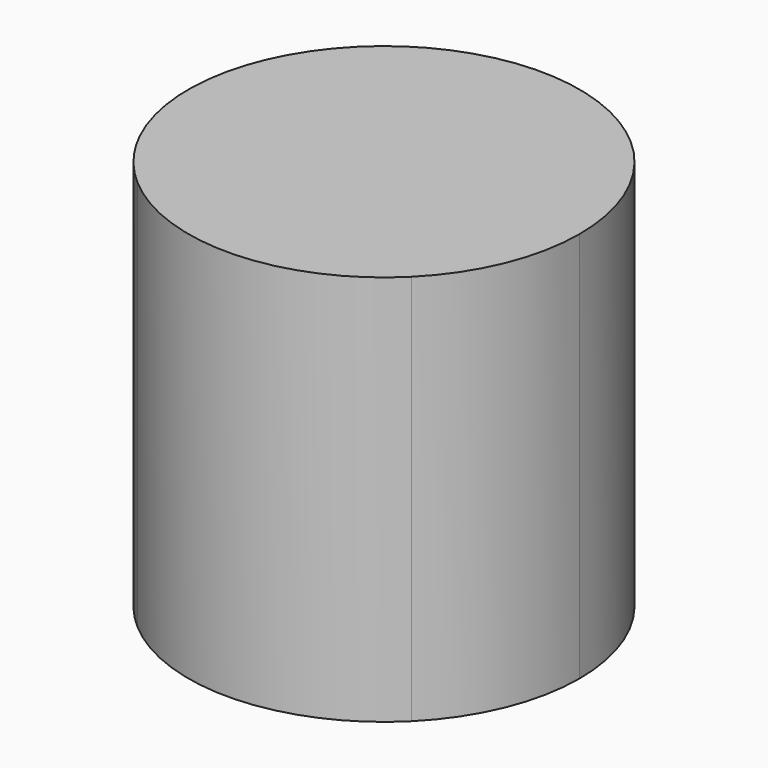
from build123d import *

# Parameters (mm, degrees)
F1_DEPTH = 3


with BuildPart() as f1:
    # F0 (on Top) → F1 (new body)
    with BuildSketch(Plane.XY):
        with BuildLine():
            add(Edge.make_bspline(
                [(106.5138728984, -172.7382705017), (106.8738569817, -172.3965421057), (107.2310443428, -172.0518793198), (107.5853167864, -171.7042677973)],
                knots=[422.4622501574, 422.4622501574, 422.4622501574, 422.4622501574, 423.9506529513, 423.9506529513, 423.9506529513, 423.9506529513], degree=3))
            Line((106.5138728987, -172.7382705019), (107.4637404903, -173.6881380935))
            ThreePointArc((107.4637404903, -173.6881380935), (107.7888996172, -173.2015030703), (107.9030803185, -172.6274779217))
            ThreePointArc((107.9030803185, -172.6274779217), (107.8214164391, -172.1392949141), (107.5853167866, -171.7042677976))
        make_face()
        with BuildLine():
            Line((107.0540405494, -171.2760894588), (106.0528662025, -172.2772638057))
            Line((106.0528662025, -172.2772638057), (106.5138728987, -172.7382705019))
            add(Edge.make_bspline(
                [(106.5138728984, -172.7382705017), (106.8738569817, -172.3965421057), (107.2310443428, -172.0518793198), (107.5853167864, -171.7042677973)],
                knots=[422.4622501574, 422.4622501574, 422.4622501574, 422.4622501574, 423.9506529513, 423.9506529513, 423.9506529513, 423.9506529513], degree=3))
            ThreePointArc((107.5853167866, -171.7042677976), (107.3443489872, -171.459568125), (107.0540405494, -171.2760894588))
        make_face()
        with BuildLine():
            ThreePointArc((107.0540405494, -171.2760894588), (106.1518946397, -171.1486588811), (105.3424201467, -171.5668177499))
            Line((105.3424201467, -171.5668177499), (106.0528662025, -172.2772638057))
            Line((106.0528662025, -172.2772638057), (107.0540405494, -171.2760894588))
        make_face()
        with BuildLine():
            Line((106.0528662025, -172.2772638057), (105.3424201467, -171.5668177499))
            ThreePointArc((105.3424201467, -171.5668177499), (104.9242612779, -172.376292243), (105.0516918555, -173.2784381526))
            Line((105.0516918555, -173.2784381526), (106.0528662025, -172.2772638057))
        make_face()
        with BuildLine():
            ThreePointArc((105.0516918555, -173.2784381526), (105.2111018752, -173.5380751932), (105.4196865403, -173.7601458682))
            add(Edge.make_bspline(
                [(105.4196865401, -173.760145868), (105.7871624576, -173.4224774148), (106.1519312885, -173.0818571533), (106.5138728984, -172.7382705017)],
                knots=[420.9657537049, 420.9657537049, 420.9657537049, 420.9657537049, 422.4622501574, 422.4622501574, 422.4622501574, 422.4622501574], degree=3))
            Line((106.5138728987, -172.7382705019), (106.0528662025, -172.2772638057))
            Line((106.0528662025, -172.2772638057), (105.0516918555, -173.2784381526))
        make_face()
        with BuildLine():
            add(Edge.make_bspline(
                [(105.4196865401, -173.760145868), (105.7871624576, -173.4224774148), (106.1519312885, -173.0818571533), (106.5138728984, -172.7382705017)],
                knots=[420.9657537049, 420.9657537049, 420.9657537049, 420.9657537049, 422.4622501574, 422.4622501574, 422.4622501574, 422.4622501574], degree=3))
            ThreePointArc((105.4196865403, -173.7601458682), (106.4558894446, -174.1265480322), (107.4637404903, -173.6881380935))
            Line((107.4637404903, -173.6881380935), (106.5138728987, -172.7382705019))
        make_face()
    extrude(amount=F1_DEPTH)


solid = f1.part
